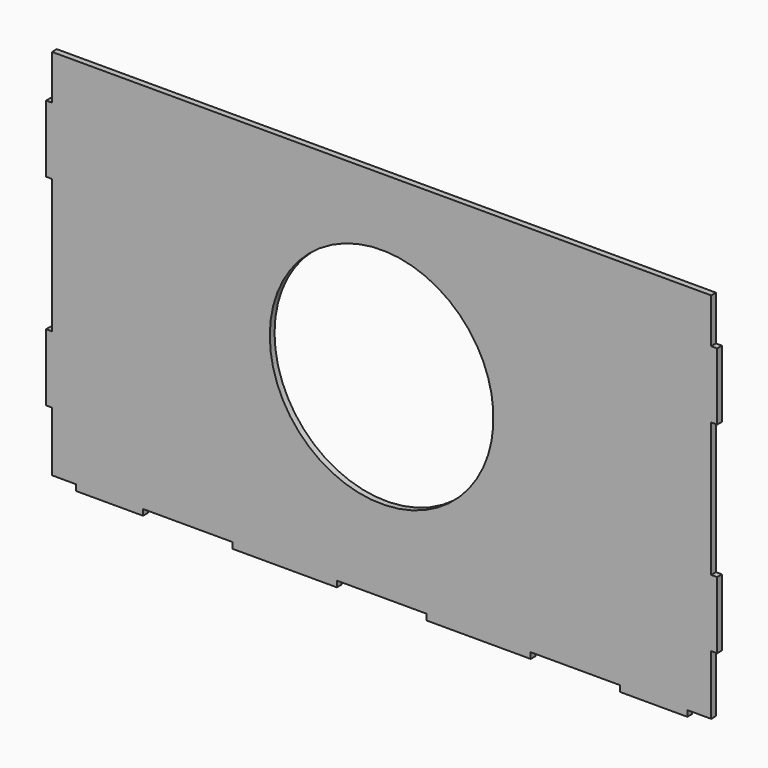
from build123d import *

# Parameters (mm, degrees)
F1_DEPTH = 4
F2_R     = 75
F3_DEPTH = 25


with BuildPart() as f1:
    # F0 (on Front) → F1 (new body)
    with BuildSketch(Plane.XZ):
        Polygon((-20, 0), (-4, 0), (-4, 40), (0, 40), (0, 85), (-4, 85), (-4, 175), (0, 175), (0, 220), (-4, 220), (-4, 250), (-446, 250), (-446, 220), (-450, 220), (-450, 175), (-446, 175), (-446, 85), (-450, 85), (-450, 40), (-446, 40), (-446, 0), (-430, 0), (-430, -4), (-385, -4), (-385, 0), (-325, 0), (-325, -4), (-255, -4), (-255, 0), (-195, 0), (-195, -4), (-125, -4), (-125, 0), (-65, 0), (-65, -4), (-20, -4), align=None)
    extrude(amount=F1_DEPTH)

    # F2 (on face) → F3 (cut)
    with BuildSketch(Plane(origin=(0, 0, 0), x_dir=(-1, 0, 0), z_dir=(0, 1, 0))):
        with Locations((225, 130)):
            Circle(F2_R)
    extrude(amount=-F3_DEPTH, mode=Mode.SUBTRACT)


solid = f1.part
